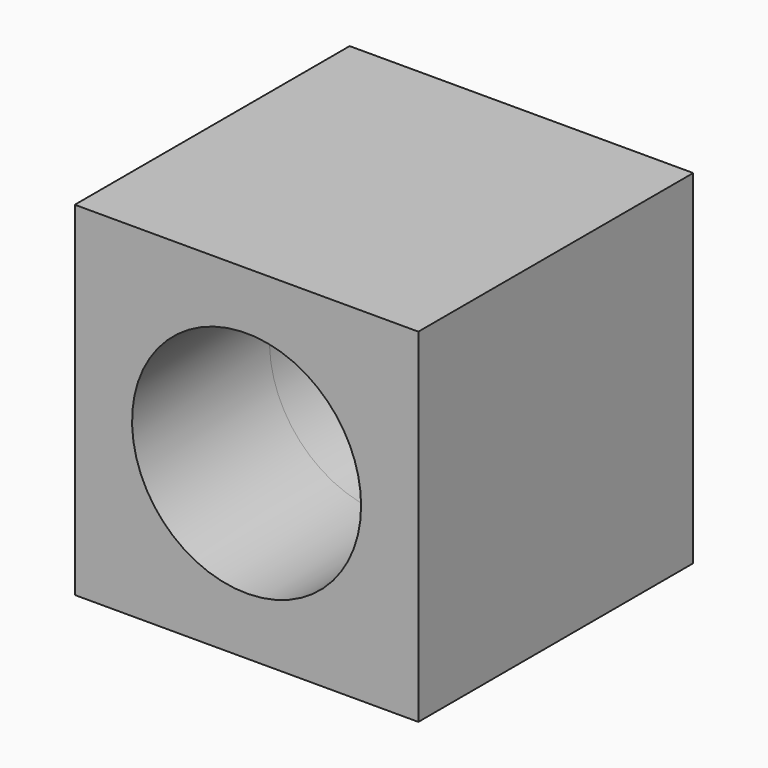
from build123d import *

# Parameters (mm, degrees)
F1_DEPTH = 57.15


with BuildPart() as f1:
    # F0 (on Front) → F1 (new body, symmetric)
    with BuildSketch(Plane.XZ):
        with BuildLine():
            Line((57.15, 57.15), (-57.15, 57.15))
            Line((-57.15, 57.15), (-57.15, -57.15))
            Line((-57.15, -57.15), (-26.9407683632, -26.9407683632))
            ThreePointArc((-26.9407683632, -26.9407683632), (-26.9407683632, 26.9407683632), (26.9407683632, 26.9407683632))
            Line((26.9407683632, 26.9407683632), (57.15, 57.15))
        make_face()
        with BuildLine():
            Line((57.15, -57.15), (57.15, 57.15))
            Line((57.15, 57.15), (26.9407683632, 26.9407683632))
            ThreePointArc((26.9407683632, 26.9407683632), (35.1998101887, 14.5802387731), (38.1, 0))
            ThreePointArc((38.1, 0), (14.5802387731, -35.1998101887), (-26.9407683632, -26.9407683632))
            Line((-26.9407683632, -26.9407683632), (-57.15, -57.15))
            Line((-57.15, -57.15), (57.15, -57.15))
        make_face()
    extrude(amount=F1_DEPTH, both=True)


solid = f1.part
